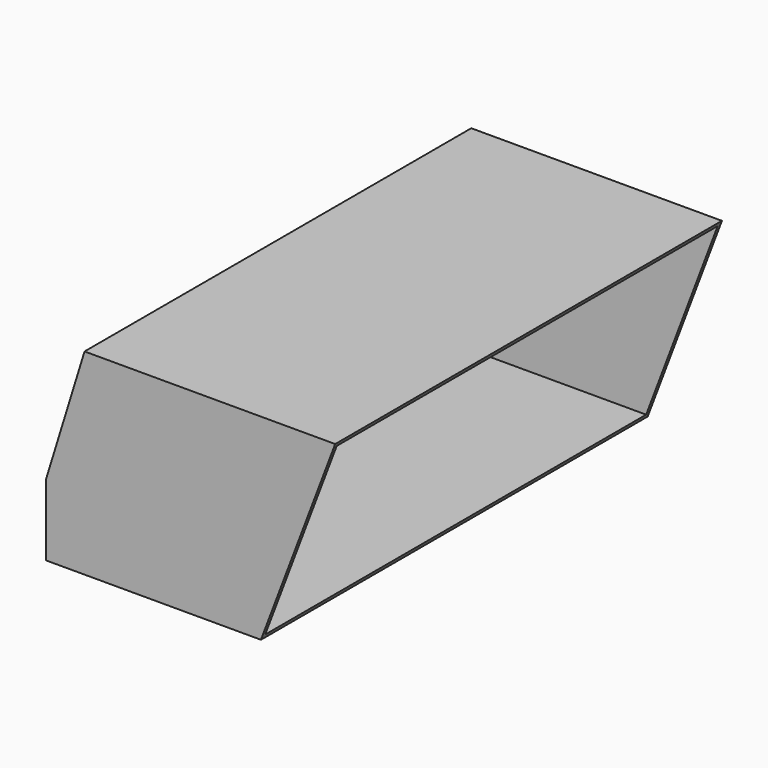
from build123d import *

# Parameters (mm, degrees)
F1_DEPTH = 342.9
F2_T     = -2.54


with BuildPart() as f1:
    # F0 (on Front) → F1 (new body)
    with BuildSketch(Plane.XZ):
        Polygon((239.359568, 139.7), (61.559568, 139.7), (34.285102, 51.128376), (34.285102, 0.328376), (186.685102, 0.328376), align=None)
    extrude(amount=-F1_DEPTH)

    # F2
    f2_openings = [f1.faces().sort_by_distance(p)[0] for p in [
        (213.022335, 171.45, 70.014188),
    ]]
    offset(amount=F2_T, openings=f2_openings)


solid = f1.part
